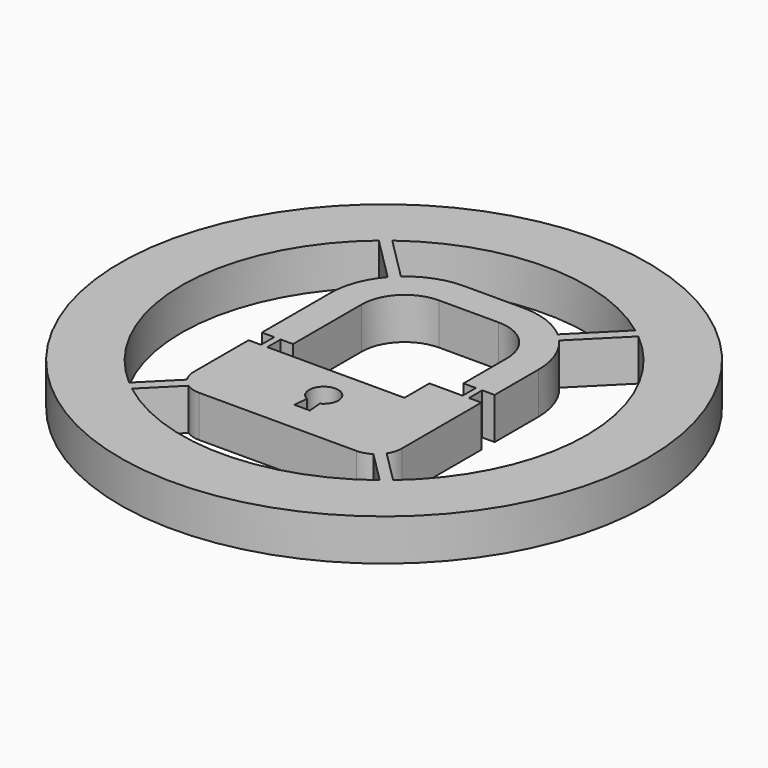
from build123d import *

# Parameters (mm, degrees)
F1_R     = 12.7
F1_R_2   = 9.75
F5_DEPTH = 2
F6_DEPTH = 2
F7_DEPTH = 2
F8_DEPTH = 25
F4_W     = 0.3043464422
F4_H     = 0.8
F9_DEPTH = 2


with BuildPart() as f5:
    # F1 (on Top) → F5 (new body)
    with BuildSketch(Plane.XY):
        Circle(F1_R)
        Circle(F1_R_2, mode=Mode.SUBTRACT)
    extrude(amount=F5_DEPTH)

    # F4 (on Top) → F6 (join)
    with BuildSketch(Plane.XY):
        Polygon((-7.7964466094, 9.75), (-8.15, 9.3964466094), (-3.5, 4.7464466094), (-3.1464466094, 5.1), align=None)
        Polygon((8.15, 9.3964466094), (7.7964466094, 9.75), (3.1464466094, 5.1), (3.5, 4.7464466094), align=None)
        Polygon((-4.4481897266, -6.2017431172), (-4.8017431172, -5.8481897266), (-8.35, -9.3964466094), (-7.9964466094, -9.75), align=None)
        Polygon((4.4481897266, -6.2017431172), (7.9964466094, -9.75), (8.35, -9.3964466094), (4.8017431172, -5.8481897266), align=None)
    extrude(amount=F6_DEPTH)

    # F2 (on Top) → F7 (join)
    with BuildSketch(Plane.XY):
        with BuildLine():
            Line((-5, 3.0314881282), (-5, -1.1))
            Line((-5, -1.1), (-3.5, -1.1))
            Line((-3.5, -1.1), (-3.5, 3.0314881282))
            ThreePointArc((-3.5, 3.0314881282), (-2.8941468997, 4.4941468997), (-1.4314881282, 5.1))
            Line((-1.4314881282, 5.1), (1.4314881282, 5.1))
            ThreePointArc((1.4314881282, 5.1), (2.8941468997, 4.4941468997), (3.5, 3.0314881282))
            Line((3.5, 3.0314881282), (3.5, 0.4))
            Line((3.5, 0.4), (5, 0.4))
            Line((5, 0.4), (5, 3.0314881282))
            ThreePointArc((5, 3.0314881282), (3.9548070715, 5.5548070715), (1.4314881282, 6.6))
            Line((1.4314881282, 6.6), (-1.4314881282, 6.6))
            ThreePointArc((-1.4314881282, 6.6), (-3.9548070715, 5.5548070715), (-5, 3.0314881282))
        make_face()
        with BuildLine():
            ThreePointArc((-5, -5.1821718265), (-4.6433063863, -6.0433063863), (-3.7821718265, -6.4))
            Line((-3.7821718265, -6.4), (3.7821718265, -6.4))
            ThreePointArc((3.7821718265, -6.4), (4.6433063863, -6.0433063863), (5, -5.1821718265))
            Line((5, -5.1821718265), (5, -0.4))
            Line((5, -0.4), (2.5, -0.4))
            Line((2.5, -0.4), (2.5, -1.9))
            Line((2.5, -1.9), (-5, -1.9))
            Line((-5, -1.9), (-5, -5.1821718265))
        make_face()
    extrude(amount=F7_DEPTH)

    # F3 (on Top) → F8 (cut)
    with BuildSketch(Plane.XY):
        with BuildLine():
            Line((-0.3084957538, -4.2579772983), (-0.375, -4.9296220087))
            Line((-0.375, -4.9296220087), (0.375, -4.9296220087))
            Line((0.375, -4.9296220087), (0.3084957538, -4.2579772983))
            ThreePointArc((0.3084957538, -4.2579772983), (0, -2.9296220087), (-0.3084957538, -4.2579772983))
        make_face()
    extrude(amount=F8_DEPTH, mode=Mode.SUBTRACT)

    # F4 (on Top) → F9 (join)
    with BuildSketch(Plane.XY):
        with Locations((-4.25, -1.5)):
            Rectangle(F4_W, F4_H)
        with Locations((4.25, 0)):
            Rectangle(F4_W, F4_H)
    extrude(amount=F9_DEPTH)


solid = f5.part
